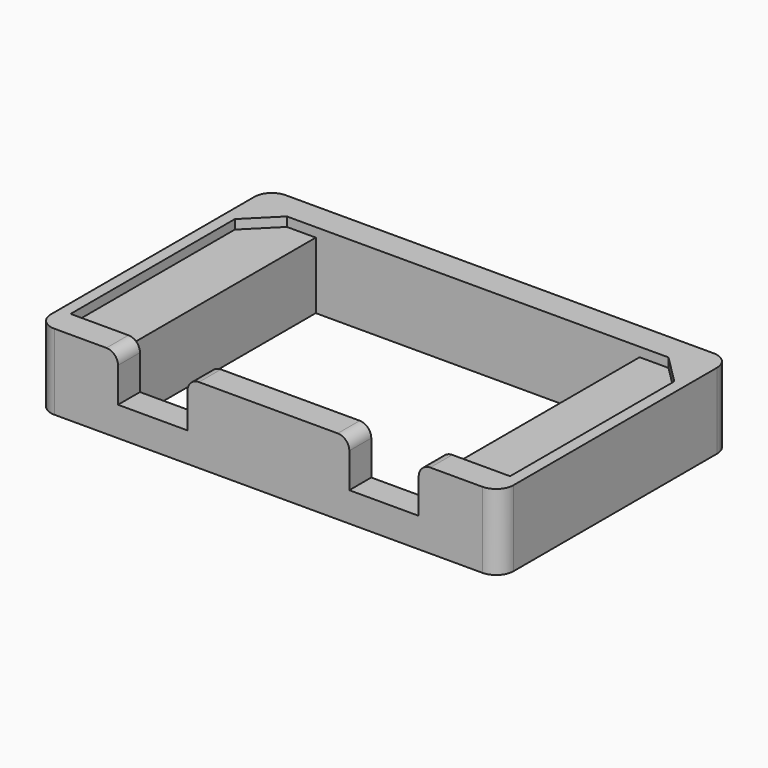
from build123d import *

# Parameters (mm, degrees)
F0_W     = 80
F0_H     = 50
F1_DEPTH = 11.5
F2_W     = 80
F2_H     = 50
F3_DEPTH = 1.6
F4_W     = 56
F4_H     = 40.5
F5_DEPTH = 11.5
F6_W     = 12
F6_H     = 4.75
F7_DEPTH = 8
F8_R     = 3
F9_R     = 2


with BuildPart() as f1:
    # F0 (on Top) → F1 (new body)
    with BuildSketch(Plane.XY):
        Rectangle(F0_W, F0_H)
    extrude(amount=-F1_DEPTH)

    # F2 (on face) → F3 (join)
    with BuildSketch(Plane.XY):
        Rectangle(F2_W, F2_H)
        Polygon((38, -20.25), (-38, -20.25), (-38, 15.25), (-33, 20.25), (33, 20.25), (38, 15.25), align=None, mode=Mode.SUBTRACT)
    extrude(amount=F3_DEPTH)

    # F4 (on face) → F5 (cut, through all)
    with BuildSketch(Plane.XY):
        Rectangle(F4_W, F4_H)
    extrude(amount=-F5_DEPTH, mode=Mode.SUBTRACT)

    # F6 (on face) → F7 (cut)
    with BuildSketch(Plane.XY.offset(1.6)):
        with Locations((-20, -22.625)):
            Rectangle(F6_W, F6_H)
        with Locations((20, -22.625)):
            Rectangle(F6_W, F6_H)
    extrude(amount=-F7_DEPTH, mode=Mode.SUBTRACT)

    # F8
    f8_edges = [f1.edges().sort_by_distance(p)[0] for p in [
        (-40, 25, -4.95),
        (-40, -25, -4.95),
        (40, -25, -4.95),
        (40, 25, -4.95),
    ]]
    fillet(f8_edges, radius=F8_R)

    # F9
    f9_edges = [f1.edges().sort_by_distance(p)[0] for p in [
        (-26, -22.625, 1.6),
        (-14, -22.625, 1.6),
        (14, -22.625, 1.6),
        (26, -22.625, 1.6),
    ]]
    fillet(f9_edges, radius=F9_R)


solid = f1.part
